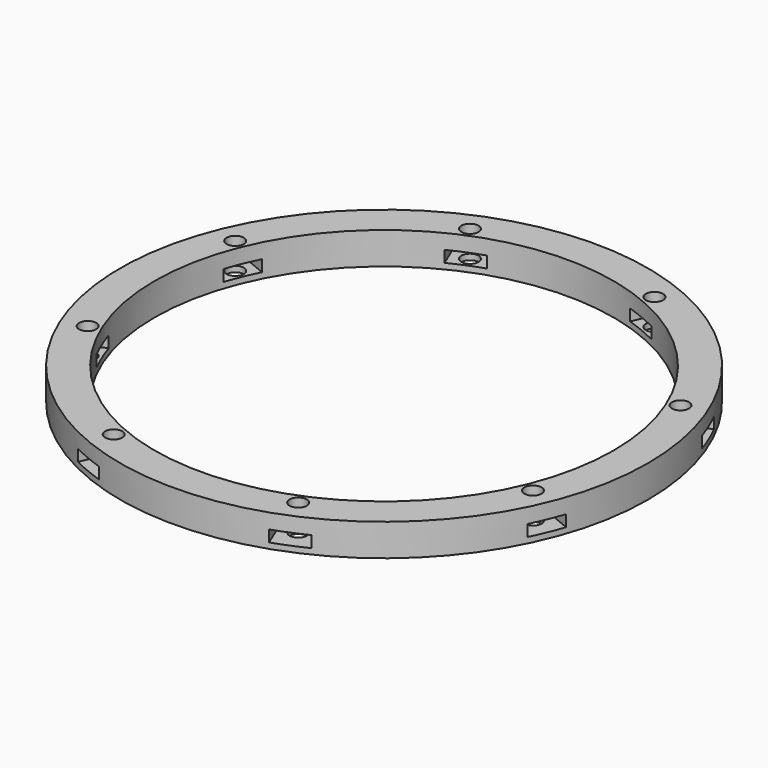
from build123d import *

# Parameters (mm, degrees)
BOX642_W                     = 6
BOX642_H                     = 8
BOX642_DEPTH                 = 2
BOX642_PLACEMENT_ANGLE       = 45
BOX636_W                     = 6
BOX636_H                     = 8
BOX636_DEPTH                 = 2
BOX640_W                     = 6
BOX640_H                     = 8
BOX640_DEPTH                 = 2
BOX643_W                     = 6
BOX643_H                     = 8
BOX643_DEPTH                 = 2
BOX643_PLACEMENT_ANGLE       = 135
BOX644_W                     = 6
BOX644_H                     = 8
BOX644_DEPTH                 = 2
BOX637_W                     = 6
BOX637_H                     = 8
BOX637_DEPTH                 = 2
BOX637_PLACEMENT_ANGLE       = 225
BOX638_W                     = 6
BOX638_H                     = 8
BOX638_DEPTH                 = 2
BOX633_W                     = 6
BOX633_H                     = 8
BOX633_DEPTH                 = 2
BOX633_PLACEMENT_ANGLE       = 45
COMPOUND1001_PLACEMENT_ANGLE = 22.5
CYLINDER1501_R               = 1.5
CYLINDER1501_DEPTH           = 32
CYLINDER1501_PLACEMENT_ANGLE = 45
CYLINDER1502_R               = 1.5
CYLINDER1502_DEPTH           = 32
CYLINDER1496_R               = 1.5
CYLINDER1496_DEPTH           = 32
CYLINDER1496_PLACEMENT_ANGLE = 135
CYLINDER1500_R               = 1.5
CYLINDER1500_DEPTH           = 32
CYLINDER1495_R               = 1.5
CYLINDER1495_DEPTH           = 32
CYLINDER1495_PLACEMENT_ANGLE = 225
CYLINDER1499_R               = 1.5
CYLINDER1499_DEPTH           = 32
CYLINDER1497_R               = 1.5
CYLINDER1497_DEPTH           = 32
CYLINDER1497_PLACEMENT_ANGLE = 45
CYLINDER1498_R               = 1.5
CYLINDER1498_DEPTH           = 32
COMPOUND999_PLACEMENT_ANGLE  = 22.5
TUBE136_R                    = 50
TUBE136_R_2                  = 40
TUBE136_DEPTH                = 11
TUBE138_R                    = 46
TUBE138_R_2                  = 40
TUBE138_DEPTH                = 16


with BuildPart() as krychle642:
    # Box642 → Box642 (new body)
    with BuildSketch(Plane.XY):
        with Locations((3, 4)):
            Rectangle(BOX642_W, BOX642_H)
    extrude(amount=BOX642_DEPTH)


with BuildPart() as krychle642_1:
    # Box642 placement: moved
    add(krychle642.part.moved(Location((30.405592, -34.648232, 33))).rotate(Axis((30.405592, -34.648232, 33), (0, 0, 1)), BOX642_PLACEMENT_ANGLE))


with BuildPart() as krychle636:
    # Box636 → Box636 (new body)
    with BuildSketch(Plane(origin=(46, -3, 33), x_dir=(0, 1, 0), z_dir=(0, 0, 1))):
        with Locations((3, 4)):
            Rectangle(BOX636_W, BOX636_H)
    extrude(amount=BOX636_DEPTH)


with BuildPart() as krychle640:
    # Box640 → Box640 (new body)
    with BuildSketch(Plane(origin=(-3, -46, 33), x_dir=(1, 0, 0), z_dir=(0, 0, 1))):
        with Locations((3, 4)):
            Rectangle(BOX640_W, BOX640_H)
    extrude(amount=BOX640_DEPTH)


with BuildPart() as krychle643:
    # Box643 → Box643 (new body)
    with BuildSketch(Plane.XY):
        with Locations((3, 4)):
            Rectangle(BOX643_W, BOX643_H)
    extrude(amount=BOX643_DEPTH)


with BuildPart() as krychle643_1:
    # Box643 placement: moved
    add(krychle643.part.moved(Location((34.648232, 30.405592, 33))).rotate(Axis((34.648232, 30.405592, 33), (0, 0, 1)), BOX643_PLACEMENT_ANGLE))


with BuildPart() as krychle644:
    # Box644 → Box644 (new body)
    with BuildSketch(Plane(origin=(3, 46, 33), x_dir=(-1, 0, 0), z_dir=(0, 0, 1))):
        with Locations((3, 4)):
            Rectangle(BOX644_W, BOX644_H)
    extrude(amount=BOX644_DEPTH)


with BuildPart() as krychle637:
    # Box637 → Box637 (new body)
    with BuildSketch(Plane.XY):
        with Locations((3, 4)):
            Rectangle(BOX637_W, BOX637_H)
    extrude(amount=BOX637_DEPTH)


with BuildPart() as krychle637_1:
    # Box637 placement: moved
    add(krychle637.part.moved(Location((-30.405592, 34.648232, 33))).rotate(Axis((-30.405592, 34.648232, 33), (0, 0, 1)), BOX637_PLACEMENT_ANGLE))


with BuildPart() as krychle638:
    # Box638 → Box638 (new body)
    with BuildSketch(Plane(origin=(-46, 3, 33), x_dir=(0, -1, 0), z_dir=(0, 0, 1))):
        with Locations((3, 4)):
            Rectangle(BOX638_W, BOX638_H)
    extrude(amount=BOX638_DEPTH)


with BuildPart() as compound1001:
    # Box633 → Box633 (new body)
    with BuildSketch(Plane.XY):
        with Locations((3, 4)):
            Rectangle(BOX633_W, BOX633_H)
    extrude(amount=BOX633_DEPTH)


with BuildPart() as compound1001_1:
    # Box633 placement: moved
    add(compound1001.part.moved(Location((-34.648232, -30.405592, 33))).rotate(Axis((-34.648232, -30.405592, 33), (0, 0, -1)), BOX633_PLACEMENT_ANGLE))

    # Compound1001: union Krychle642, Krychle636, Krychle640, Krychle643, Krychle644, Krychle637, Krychle638
    add(krychle642_1.part)
    add(krychle636.part)
    add(krychle640.part)
    add(krychle643_1.part)
    add(krychle644.part)
    add(krychle637_1.part)
    add(krychle638.part)


with BuildPart() as compound1001_2:
    # Compound1001 placement: moved
    add(compound1001_1.part.moved(Location((0, 0, 4.4))).rotate(Axis((0, 0, 4.4), (0, 0, 1)), COMPOUND1001_PLACEMENT_ANGLE))


with BuildPart() as obj1:
    # Cylinder1501 → Cylinder1501 (new body)
    with BuildSketch(Plane.XY):
        Circle(CYLINDER1501_R)
    extrude(amount=CYLINDER1501_DEPTH)


with BuildPart() as obj1_1:
    # Cylinder1501 placement: moved
    add(obj1.part.moved(Location((29.698485, -29.698485, 33.5))).rotate(Axis((29.698485, -29.698485, 33.5), (0, 0, 1)), CYLINDER1501_PLACEMENT_ANGLE))


with BuildPart() as obj2:
    # Cylinder1502 → Cylinder1502 (new body)
    with BuildSketch(Plane(origin=(42, 0, 33.5), x_dir=(0, 1, 0), z_dir=(0, 0, 1))):
        Circle(CYLINDER1502_R)
    extrude(amount=CYLINDER1502_DEPTH)


with BuildPart() as obj3:
    # Cylinder1496 → Cylinder1496 (new body)
    with BuildSketch(Plane.XY):
        Circle(CYLINDER1496_R)
    extrude(amount=CYLINDER1496_DEPTH)


with BuildPart() as obj3_1:
    # Cylinder1496 placement: moved
    add(obj3.part.moved(Location((29.698485, 29.698485, 33.5))).rotate(Axis((29.698485, 29.698485, 33.5), (0, 0, 1)), CYLINDER1496_PLACEMENT_ANGLE))


with BuildPart() as obj4:
    # Cylinder1500 → Cylinder1500 (new body)
    with BuildSketch(Plane(origin=(0, 42, 33.5), x_dir=(-1, 0, 0), z_dir=(0, 0, 1))):
        Circle(CYLINDER1500_R)
    extrude(amount=CYLINDER1500_DEPTH)


with BuildPart() as obj5:
    # Cylinder1495 → Cylinder1495 (new body)
    with BuildSketch(Plane.XY):
        Circle(CYLINDER1495_R)
    extrude(amount=CYLINDER1495_DEPTH)


with BuildPart() as obj5_1:
    # Cylinder1495 placement: moved
    add(obj5.part.moved(Location((-29.698485, 29.698485, 33.5))).rotate(Axis((-29.698485, 29.698485, 33.5), (0, 0, 1)), CYLINDER1495_PLACEMENT_ANGLE))


with BuildPart() as obj6:
    # Cylinder1499 → Cylinder1499 (new body)
    with BuildSketch(Plane(origin=(-42, 0, 33.5), x_dir=(0, -1, 0), z_dir=(0, 0, 1))):
        Circle(CYLINDER1499_R)
    extrude(amount=CYLINDER1499_DEPTH)


with BuildPart() as obj7:
    # Cylinder1497 → Cylinder1497 (new body)
    with BuildSketch(Plane.XY):
        Circle(CYLINDER1497_R)
    extrude(amount=CYLINDER1497_DEPTH)


with BuildPart() as obj7_1:
    # Cylinder1497 placement: moved
    add(obj7.part.moved(Location((-29.698485, -29.698485, 33.5))).rotate(Axis((-29.698485, -29.698485, 33.5), (0, 0, -1)), CYLINDER1497_PLACEMENT_ANGLE))


with BuildPart() as compound999:
    # Cylinder1498 → Cylinder1498 (new body)
    with BuildSketch(Plane(origin=(0, -42, 33.5), x_dir=(1, 0, 0), z_dir=(0, 0, 1))):
        Circle(CYLINDER1498_R)
    extrude(amount=CYLINDER1498_DEPTH)

    # Compound999: union obj1, obj2, obj3, obj4, obj5, obj6, obj7
    add(obj1_1.part)
    add(obj2.part)
    add(obj3_1.part)
    add(obj4.part)
    add(obj5_1.part)
    add(obj6.part)
    add(obj7_1.part)


with BuildPart() as compound999_1:
    # Compound999 placement: moved
    add(compound999.part.rotate(Axis((0, 0, 0), (0, 0, 1)), COMPOUND999_PLACEMENT_ANGLE))


with BuildPart() as tube136:
    # Tube136 → Tube136 (new body)
    with BuildSketch(Plane.XY.offset(25.4)):
        Circle(TUBE136_R)
        Circle(TUBE136_R_2, mode=Mode.SUBTRACT)
    extrude(amount=TUBE136_DEPTH)


with BuildPart() as cut544:
    # Tube138 → Tube138 (new body)
    with BuildSketch(Plane.XY.offset(26)):
        Circle(TUBE138_R)
        Circle(TUBE138_R_2, mode=Mode.SUBTRACT)
    extrude(amount=TUBE138_DEPTH)

    # Cut538: cut Tube136
    add(tube136.part, mode=Mode.SUBTRACT)

    # Cut543: cut Compound999
    add(compound999_1.part, mode=Mode.SUBTRACT)

    # Cut544: cut Compound1001
    add(compound1001_2.part, mode=Mode.SUBTRACT)


with BuildPart() as cut544_1:
    # Cut544 placement: moved
    add(cut544.part.moved(Location((0, 0, 3))))


solid = cut544_1.part
